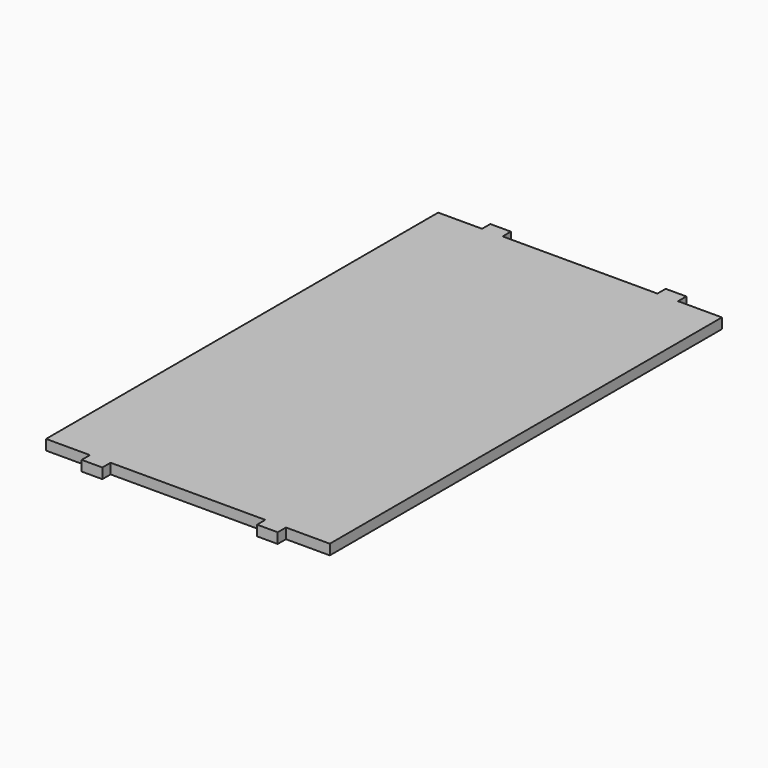
from build123d import *

# Parameters (mm, degrees)
F0_W     = 55
F0_H     = 95
F1_DEPTH = 2
F2_W     = 4
F2_H     = 2
F3_DEPTH = 2


with BuildPart() as f1:
    # F0 (on Top) → F1 (new body)
    with BuildSketch(Plane.XY):
        Rectangle(F0_W, F0_H)
    extrude(amount=F1_DEPTH)

    # F2 (on face) → F3 (join)
    with BuildSketch(Plane.XZ.offset(47.5)):
        with Locations((17, 1)):
            Rectangle(F2_W, F2_H)
        with Locations((-17, 1)):
            Rectangle(F2_W, F2_H)
    extrude(amount=F3_DEPTH)

    # F4: F1 across plane


with BuildPart() as f1_1:
    add(f1.part)
    add(f1.part.mirror(Plane.XZ))


solid = f1_1.part
